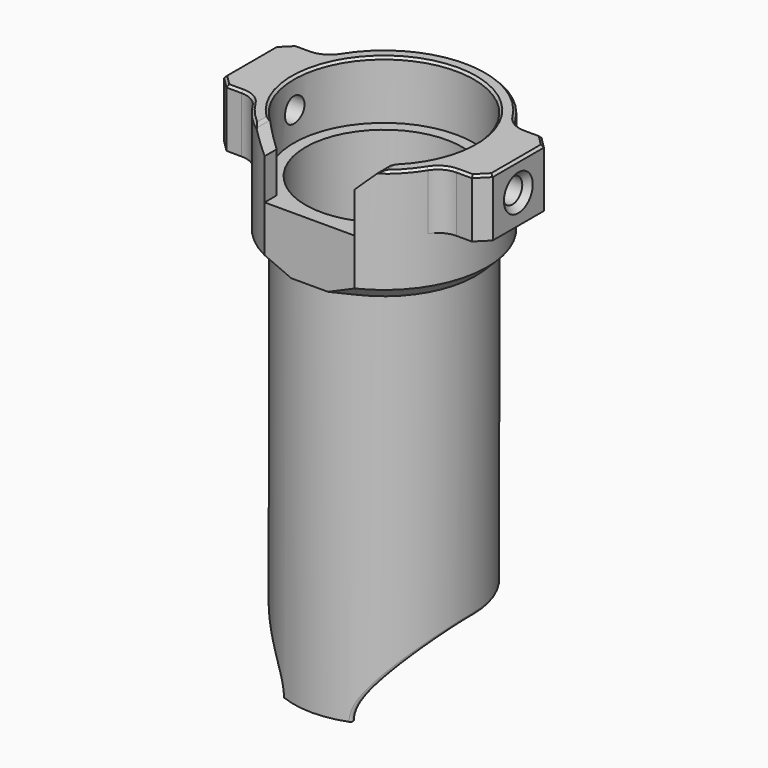
from build123d import *

# Parameters (mm, degrees)
SKETCH070_R          = 15.5
SKETCH070_R_2        = 13.5
PAD019_DEPTH         = 111
SKETCH072_R          = 14.5
PAD020_DEPTH         = 10
PAD021_DEPTH         = 10
PAD021_FACE3_R       = 15.5
PAD021_FACE3_R_2     = 13.5
POCKET024_DEPTH      = 36
POCKET025_DEPTH      = 17.779147
POCKET025_DEPTH_BACK = 17.779147
CHAMFER016_SIZE      = 2
FILLET008_R          = 0.5
CHAMFER017_SIZE      = 3
SKETCH075_W          = 7
SKETCH075_H          = 15
PAD022_DEPTH         = 10
FILLET009_R          = 4
CHAMFER018_SIZE      = 2
SKETCH074_R          = 2.1
POCKET026_DEPTH      = 23.1197
POCKET026_DEPTH_BACK = 23.1197
CHAMFER019_SIZE      = 0.4
CHAMFER020_SIZE      = 1


with BuildPart() as part:
    # Sketch070 → Pad019 (new body)
    with BuildSketch(Plane(origin=(0, 0, 0), x_dir=(-1, 0, 0), z_dir=(0, 0, -1))):
        with Locations((0, 16)):
            Circle(SKETCH070_R)
        with Locations((0, 16)):
            Circle(SKETCH070_R_2, mode=Mode.SUBTRACT)
    extrude(amount=-PAD019_DEPTH)

    # Sketch072 (on Face3 of Pad019) → Pad020 (join)
    with BuildSketch(Plane.XY.offset(111)):
        with BuildLine():
            ThreePointArc((7.75, 0), (0, 33.778147), (-7.75, 0))
            Line((-7.75, 0), (7.75, 0))
        make_face()
        with Locations((0, 16)):
            Circle(SKETCH072_R, mode=Mode.SUBTRACT)
    extrude(amount=-PAD020_DEPTH)

    # Sketch071 (on Face3 of Pad019) → Pad021 (join)
    with BuildSketch(Plane.XY.offset(111)):
        with BuildLine():
            ThreePointArc((7.75, 2.576606), (0, 31.5), (-7.75, 2.576606))
            Line((-7.75, 2.576606), (-7.75, 0))
            ThreePointArc((7.75, 0), (0, 33.778147), (-7.75, 0))
            Line((7.75, 0), (7.75, 2.576606))
        make_face()
    extrude(amount=PAD021_DEPTH)

    # Pad021 Face3 → Pocket024 (cut)
    with BuildSketch(Plane(origin=(0, 16, 0), x_dir=(0, -1, 0), z_dir=(0, 0, -1))):
        Circle(PAD021_FACE3_R)
        Circle(PAD021_FACE3_R_2, mode=Mode.SUBTRACT)
    extrude(amount=-POCKET024_DEPTH, mode=Mode.SUBTRACT)

    # Sketch073 → Pocket025 (cut, two sides)
    with BuildSketch(Plane.YZ) as pocket025_sk:
        with BuildLine():
            ThreePointArc((16, 49.5), (6.454058, 45.545942), (2.5, 36))
            Line((35, 36), (2.5, 36))
            Line((35, 49.5), (35, 36))
            Line((16, 49.5), (35, 49.5))
        make_face()
    extrude(amount=-POCKET025_DEPTH, mode=Mode.SUBTRACT)
    extrude(pocket025_sk.sketch, amount=POCKET025_DEPTH_BACK, mode=Mode.SUBTRACT)

    # Chamfer016
    chamfer016_edges = [part.edges().sort_by_distance(p)[0] for p in [
        (0, 33.778147, 101),
    ]]
    chamfer(chamfer016_edges, length=CHAMFER016_SIZE)

    # Fillet008
    fillet008_edges = [part.edges().sort_by_distance(p)[0] for p in [
        (0, 31.5, 49.5),
    ]]
    fillet(fillet008_edges, radius=FILLET008_R)

    # Chamfer017
    chamfer017_edges = [part.edges().sort_by_distance(p)[0] for p in [
        (-7.75, 1.288303, 121),
        (7.75, 1.288303, 121),
    ]]
    chamfer(chamfer017_edges, length=CHAMFER017_SIZE)

    # Sketch075 (on Face5 of Chamfer017) → Pad022 (join)
    with BuildSketch(Plane.XY.offset(121)):
        with Locations((19.6187, 16)):
            Rectangle(SKETCH075_W, SKETCH075_H)
        with Locations((-19.6187, 16)):
            Rectangle(SKETCH075_W, SKETCH075_H)
    extrude(amount=-PAD022_DEPTH)

    # Fillet009
    fillet009_edges = [part.edges().sort_by_distance(p)[0] for p in [
        (16.1187, 8.5, 116),
        (16.1187, 23.5, 116),
        (-16.1187, 23.5, 116),
        (-16.1187, 8.5, 116),
    ]]
    fillet(fillet009_edges, radius=FILLET009_R)

    # Chamfer018
    chamfer018_edges = [part.edges().sort_by_distance(p)[0] for p in [
        (23.1187, 23.5, 116),
        (-23.1187, 8.5, 116),
        (-23.1187, 23.5, 116),
        (23.1187, 8.5, 116),
    ]]
    chamfer(chamfer018_edges, length=CHAMFER018_SIZE)

    # Sketch074 → Pocket026 (cut, two sides)
    with BuildSketch(Plane.YZ) as pocket026_sk:
        with Locations((16, 116)):
            Circle(SKETCH074_R)
    extrude(amount=-POCKET026_DEPTH, mode=Mode.SUBTRACT)
    extrude(pocket026_sk.sketch, amount=POCKET026_DEPTH_BACK, mode=Mode.SUBTRACT)

    # Chamfer019
    chamfer019_edges = [part.edges().sort_by_distance(p)[0] for p in [
        (19.80648, 8.5, 121),
        (22.1187, 9.5, 121),
        (16.551175, 7.996344, 121),
        (23.1187, 16, 121),
        (13.142116, 4.027227, 121),
        (22.1187, 22.5, 121),
        (10.75, 3.336921, 121),
        (19.80648, 23.5, 121),
        (0, 31.5, 121),
        (16.551175, 24.003656, 121),
        (-10.75, 3.336921, 121),
        (0, 33.778147, 121),
        (-13.142116, 4.027227, 121),
        (-16.551175, 24.003656, 121),
        (-16.551175, 7.996344, 121),
        (-19.80648, 23.5, 121),
        (-19.80648, 8.5, 121),
        (-22.1187, 22.5, 121),
        (-22.1187, 9.5, 121),
        (-23.1187, 16, 121),
    ]]
    chamfer(chamfer019_edges, length=CHAMFER019_SIZE)

    # Chamfer020
    chamfer020_edges = [part.edges().sort_by_distance(p)[0] for p in [
        (-23.1187, 13.9, 116),
        (23.1187, 13.9, 116),
    ]]
    chamfer(chamfer020_edges, length=CHAMFER020_SIZE)


solid = part.part
